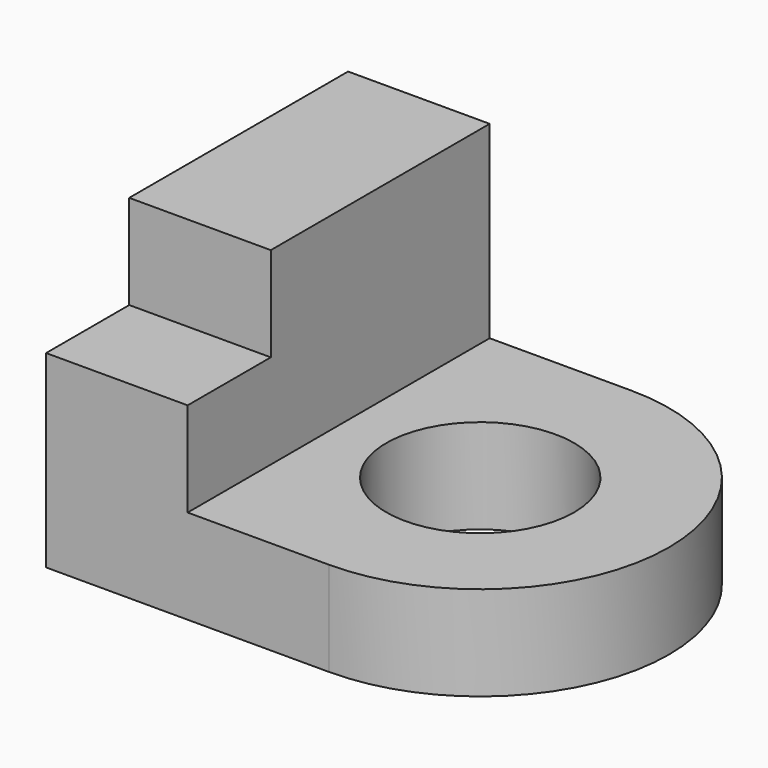
from build123d import *

# Parameters (mm, degrees)
F0_W     = 76.2
F0_H     = 101.6
F2_DEPTH = 25.4
F1_R     = 50.8
F3_DEPTH = 25.4
F4_R     = 25.275511
F5_DEPTH = 25.401
F6_W     = 38.1
F6_H     = 101.6
F7_DEPTH = 50.8
F8_W     = 38.1
F8_H     = 73.628832
F9_DEPTH = 76.2


with BuildPart() as f2:
    # F0 (on Top) → F2 (new body)
    with BuildSketch(Plane.XY):
        with Locations((-38.1, 0)):
            Rectangle(F0_W, F0_H)
    extrude(amount=F2_DEPTH)

    # F1 (on Top) → F3 (join)
    with BuildSketch(Plane.XY):
        Circle(F1_R)
    extrude(amount=F3_DEPTH)

    # F4 (on Top) → F5 (cut, through all)
    with BuildSketch(Plane.XY):
        Circle(F4_R)
    extrude(amount=F5_DEPTH, mode=Mode.SUBTRACT)

    # F6 (on Top) → F7 (join)
    with BuildSketch(Plane.XY):
        with Locations((-57.15, 0)):
            Rectangle(F6_W, F6_H)
    extrude(amount=F7_DEPTH)

    # F8 (on Top) → F9 (join)
    with BuildSketch(Plane.XY):
        with Locations((-57.15, 13.985584)):
            Rectangle(F8_W, F8_H)
    extrude(amount=F9_DEPTH)


solid = f2.part
